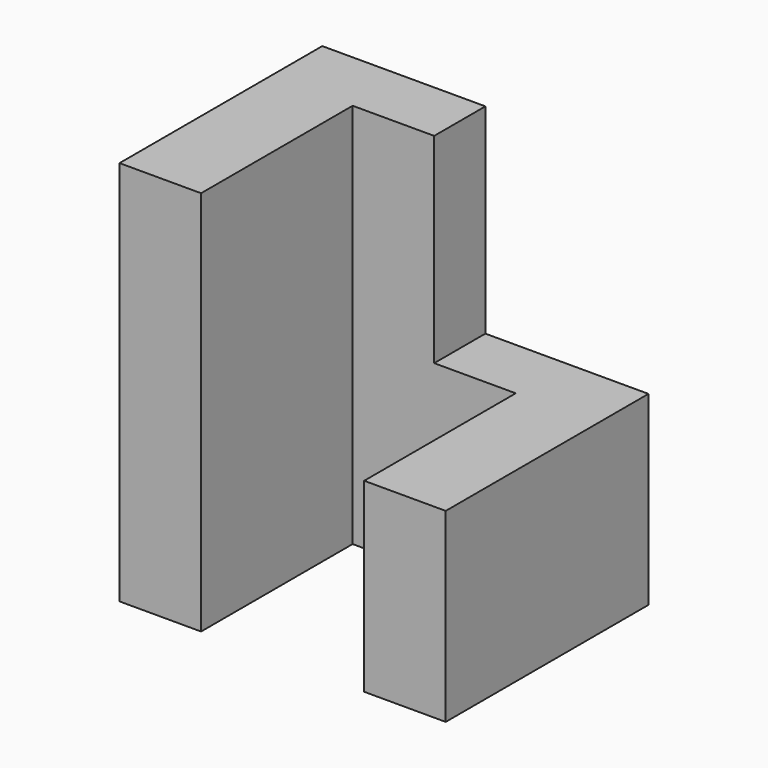
from build123d import *

# Parameters (mm, degrees)
F1_DEPTH = 70.975848
F3_DEPTH = 46.616317


with BuildPart() as f1:
    # F0 (on Top) → F1 (new body)
    with BuildSketch(Plane.XY):
        Polygon((0, 46.615317), (0, 0), (15, 0), (15, 34.846107), (45, 34.846107), (45, 0), (60, 0), (60, 46.615317), align=None)
    extrude(amount=F1_DEPTH)

    # F2 (on Front) → F3 (cut, through all)
    with BuildSketch(Plane.XZ):
        Polygon((60, 34.172569), (60, 70.975848), (30.000645, 71.172569), (30.000645, 34.172569), align=None)
    extrude(amount=-F3_DEPTH, mode=Mode.SUBTRACT)


solid = f1.part
